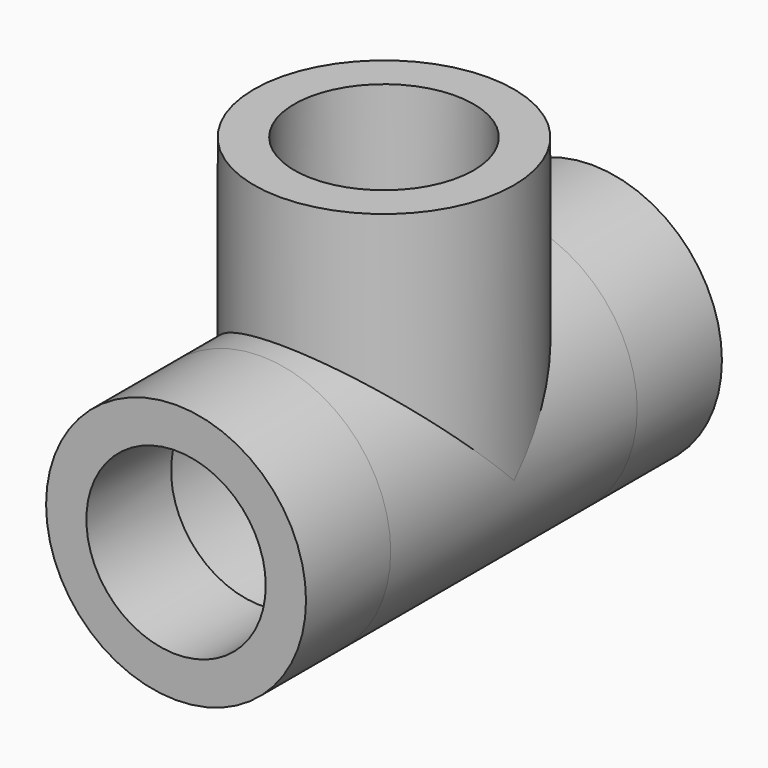
from build123d import *

# Parameters (mm, degrees)
F0_R     = 13.5
F0_R_2   = 9.3155
F1_DEPTH = 11
F2_R     = 13.5
F2_R_2   = 12
F3_DEPTH = 32
F4_R     = 13.5
F4_R_2   = 9.3155
F5_DEPTH = 11
F6_R     = 13.5
F6_R_2   = 12
F7_DEPTH = 16
F8_R     = 13.5
F8_R_2   = 9.3155
F9_DEPTH = 11


with BuildPart() as f1:
    # F0 (on Front) → F1 (new body)
    with BuildSketch(Plane.XZ):
        Circle(F0_R)
        Circle(F0_R_2, mode=Mode.SUBTRACT)
    extrude(amount=F1_DEPTH)

    # F2 (on face) → F3 (join)
    with BuildSketch(Plane(origin=(0, 0, 0), x_dir=(-1, 0, 0), z_dir=(0, 1, 0))):
        Circle(F2_R)
        Circle(F2_R_2, mode=Mode.SUBTRACT)
    extrude(amount=F3_DEPTH)

    # F4 (on face) → F5 (join)
    with BuildSketch(Plane(origin=(0, 32, 0), x_dir=(-1, 0, 0), z_dir=(0, 1, 0))):
        Circle(F4_R)
        Circle(F4_R_2, mode=Mode.SUBTRACT)
    extrude(amount=F5_DEPTH)

    # F6 (on Top) → F7 (join)
    with BuildSketch(Plane.XY):
        with Locations((0, 16)):
            Circle(F6_R)
        with Locations((0, 16)):
            Circle(F6_R_2, mode=Mode.SUBTRACT)
    extrude(amount=F7_DEPTH)

    # F8 (on face) → F9 (join)
    with BuildSketch(Plane.XY.offset(16)):
        with Locations((0, 16)):
            Circle(F8_R)
        with Locations((0, 16)):
            Circle(F8_R_2, mode=Mode.SUBTRACT)
    extrude(amount=F9_DEPTH)


solid = f1.part
